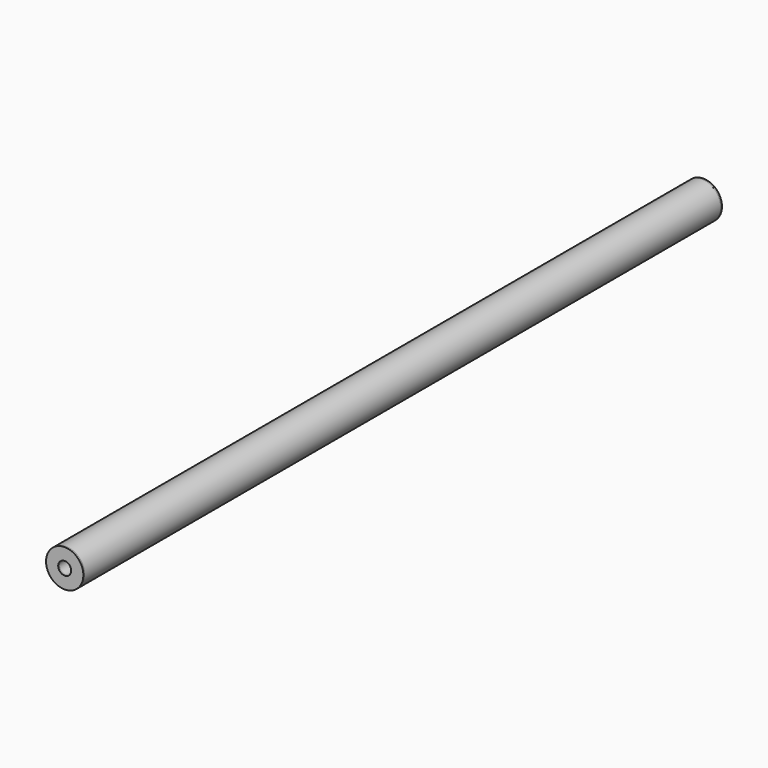
from build123d import *

# Parameters (mm, degrees)
F0_R     = 60
F0_R_2   = 40
F1_DEPTH = 4900
F0_R_3   = 115
F0_R_4   = 110
F2_R     = 115
F2_R_2   = 40
F3_DEPTH = 10
F4_R     = 115
F4_R_2   = 40
F5_DEPTH = 10


with BuildPart() as f1:
    # F0 (on Front) → F1 (new body)
    with BuildSketch(Plane.XZ):
        Circle(F0_R)
        Circle(F0_R_2, mode=Mode.SUBTRACT)
    extrude(amount=F1_DEPTH)


with BuildPart() as f1b:
    # F0 (on Front) → F1, piece 2 (new body)
    with BuildSketch(Plane.XZ):
        Circle(F0_R_3)
        Circle(F0_R_4, mode=Mode.SUBTRACT)
    extrude(amount=F1_DEPTH)


with BuildPart() as f3:
    # F2 (on face) → F3 (new body)
    with BuildSketch(Plane.XZ.offset(4900)):
        Circle(F2_R)
        Circle(F2_R_2, mode=Mode.SUBTRACT)
    extrude(amount=F3_DEPTH)


with BuildPart() as f5:
    # F4 (on face) → F5 (new body)
    with BuildSketch(Plane(origin=(0, 0, 0), x_dir=(-1, 0, 0), z_dir=(0, 1, 0))):
        Circle(F4_R)
        Circle(F4_R_2, mode=Mode.SUBTRACT)
    extrude(amount=F5_DEPTH)


solid = Compound([f1.part, f1b.part, f3.part, f5.part])
